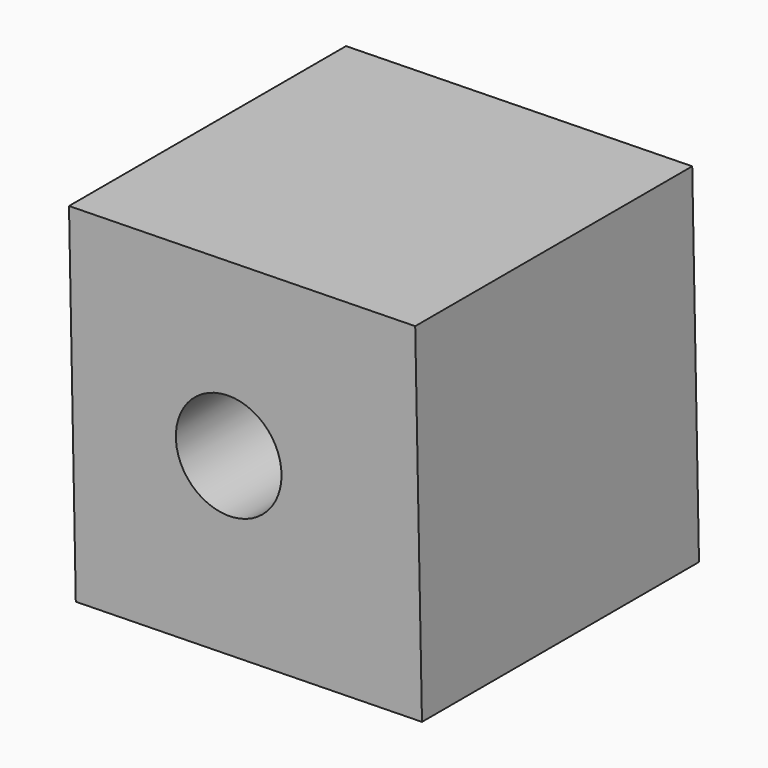
from build123d import *

# Parameters (mm, degrees)
F1_DEPTH = 76.2
F2_R     = 11.632497
F3_DEPTH = 84.582


with BuildPart() as f1:
    # F0 (on Front) → F1 (new body)
    with BuildSketch(Plane.XZ):
        Polygon((41.046472, 38.463472), (-35.138952, 36.973097), (-33.648576, -39.212327), (42.536847, -37.721951), align=None)
    extrude(amount=F1_DEPTH)

    # F2 (on Front) → F3 (cut)
    with BuildSketch(Plane.XZ):
        Circle(F2_R)
    extrude(amount=F3_DEPTH, mode=Mode.SUBTRACT)


solid = f1.part
